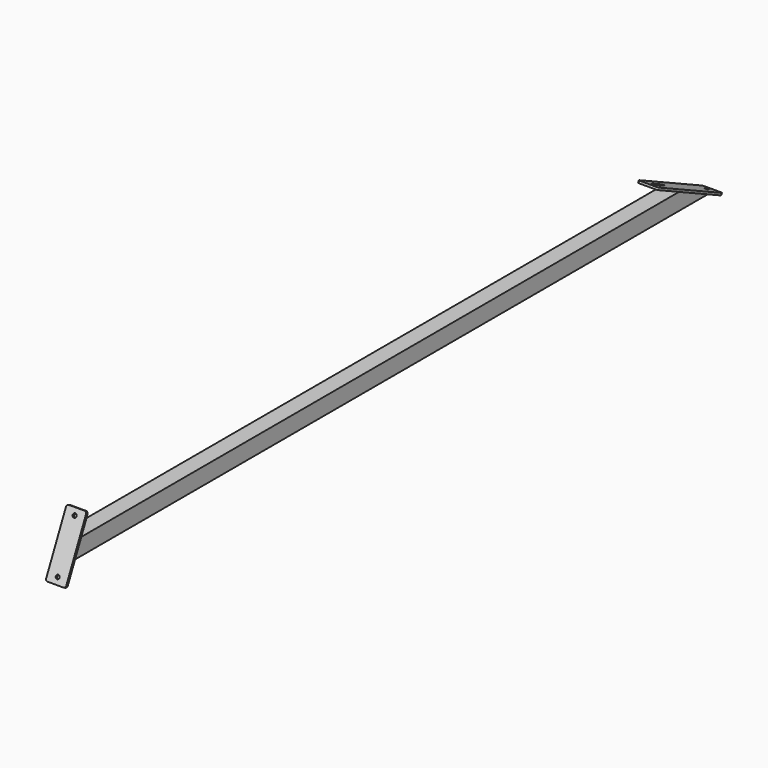
from build123d import *

# Parameters (mm, degrees)
F0_W      = 40
F0_H      = 40
F1_DEPTH  = 1900
F3_DEPTH  = 40.001
F4_W      = 48
F4_H      = 214.6480633261
F5_DEPTH  = 5
F6_W      = 48
F6_H      = 150
F7_DEPTH  = 5
F8_R      = 4.5
F9_DEPTH  = 5
F10_R     = 4.5
F11_DEPTH = 5
F12_R     = 5


with BuildPart() as f1:
    # F0 (on Front) → F1 (new body)
    with BuildSketch(Plane.XZ):
        Rectangle(F0_W, F0_H)
    extrude(amount=F1_DEPTH)

    # F2 (on face) → F3 (cut, through all)
    with BuildSketch(Plane(origin=(-20, 0, 0), x_dir=(0, -1, 0), z_dir=(-1, 0, 0))):
        Polygon((85.7802768204, 20), (0, 20), (0, -20), align=None)
        Polygon((1900, -20), (1900, 20), (1881.3476936738, 20), align=None)
    extrude(amount=-F3_DEPTH, mode=Mode.SUBTRACT)

    # F4 (on face) → F5 (join)
    with BuildSketch(Plane(origin=(0, -7.6604444312, -16.4278760969), x_dir=(1, 0, 0), z_dir=(0, 0.4226182617, 0.906307787))):
        with Locations((0, -58.8716664282)):
            Rectangle(F4_W, F4_H)
    extrude(amount=F5_DEPTH)

    # F6 (on face) → F7 (join)
    with BuildSketch(Plane(origin=(0, -1552.987784771, 724.1700970599), x_dir=(1, 0, 0), z_dir=(0, -0.906307787, 0.4226182617))):
        with Locations((0, -799.0332946688)):
            Rectangle(F6_W, F6_H)
    extrude(amount=F7_DEPTH)

    # F8 (on face) → F9 (cut, through all)
    with BuildSketch(Plane(origin=(0, -1557.5193237062, 726.2831883686), x_dir=(1, 0, 0), z_dir=(0, -0.906307787, 0.4226182617))):
        with Locations((0, -859.0332946688)):
            Circle(F8_R)
        with Locations((0, -739.0332946688)):
            Circle(F8_R)
    extrude(amount=-F9_DEPTH, mode=Mode.SUBTRACT)

    # F10 (on face) → F11 (cut, through all)
    with BuildSketch(Plane(origin=(0, -5.5473531225, -11.8963371617), x_dir=(1, 0, 0), z_dir=(0, 0.4226182617, 0.906307787))):
        with Locations((0, 28.4523652348)):
            Circle(F10_R)
        with BuildLine():
            Line((-4.5, -146.1956980913), (4.5, -146.1956980913))
            ThreePointArc((4.5, -146.1956980913), (0, -141.6956980913), (-4.5, -146.1956980913))
        make_face()
        with BuildLine():
            ThreePointArc((-4.5, -146.1956980913), (0, -150.6956980913), (4.5, -146.1956980913))
            Line((4.5, -146.1956980913), (-4.5, -146.1956980913))
        make_face()
        with BuildLine():
            ThreePointArc((-4.5, -146.1956980913), (0, -141.6956980913), (4.5, -146.1956980913))
            Line((4.5, -146.1956980913), (4.5, -116.1956980913))
            Line((4.5, -116.1956980913), (-4.5, -116.1956980913))
            Line((-4.5, -116.1956980913), (-4.5, -146.1956980913))
        make_face()
        with BuildLine():
            Line((-4.5, -116.1956980913), (4.5, -116.1956980913))
            ThreePointArc((4.5, -116.1956980913), (0, -111.6956980913), (-4.5, -116.1956980913))
        make_face()
    extrude(amount=-F11_DEPTH, mode=Mode.SUBTRACT)

    # F12
    f12_edges = [f1.edges().sort_by_distance(p)[0] for p in [
        (-24, 37.308857, -34.638961),
        (-24, -157.228354, 56.07523),
        (24, 37.308857, -34.638961),
        (24, -157.228354, 56.07523),
        (-24, -1924.635986, -66.916538),
        (24, -1924.635986, -66.916538),
        (24, -1861.243247, 69.02963),
        (-24, -1861.243247, 69.02963),
    ]]
    fillet(f12_edges, radius=F12_R)


solid = f1.part
